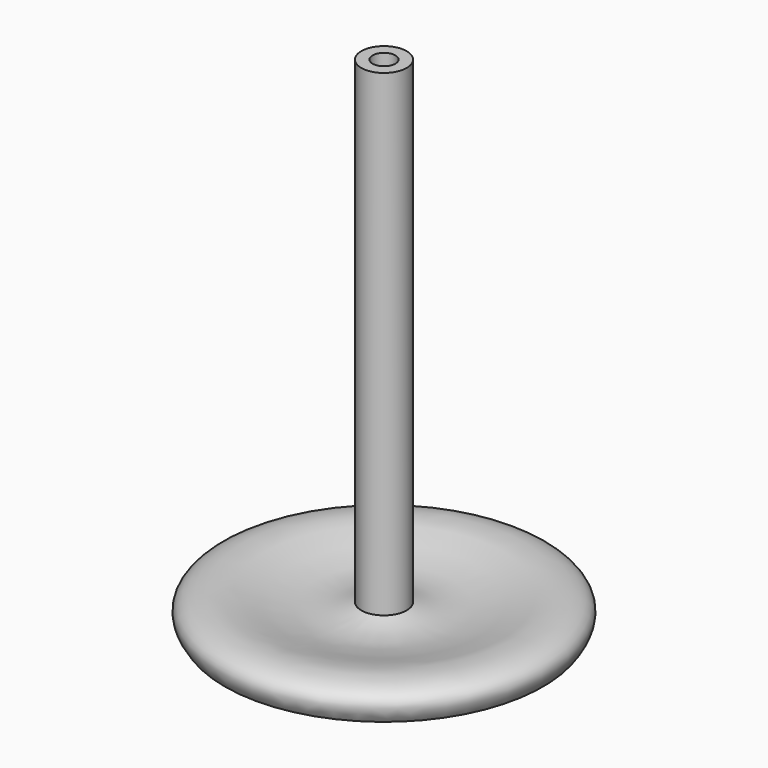
from build123d import *

# Parameters (mm, degrees)
F2_R     = 2.5
F3_DEPTH = 15


with BuildPart() as f1:
    # F0 (on Right) → F1 (revolve)
    with BuildSketch(Plane.YZ):
        with BuildLine():
            Line((-35, 0), (0, 0))
            Line((0, 0), (0, 110))
            Line((0, 110), (-5, 110))
            Line((-5, 110), (-5, 5))
            add(Edge.make_bspline(
                [(-35, 0), (-38.5625176132, 4.7699366696), (-26.9268367712, 10.1025238986), (-15.3670758009, 1.2794099748), (-5, 5)],
                knots=[0, 0, 0, 0, 0.3663615612, 1, 1, 1, 1], degree=3))
        make_face()
    revolve(axis=Axis((0, 0, 55), (0, 0, 1)))

    # F2 (on face) → F3 (cut)
    with BuildSketch(Plane.XY.offset(110)):
        Circle(F2_R)
    extrude(amount=-F3_DEPTH, mode=Mode.SUBTRACT)


solid = f1.part
